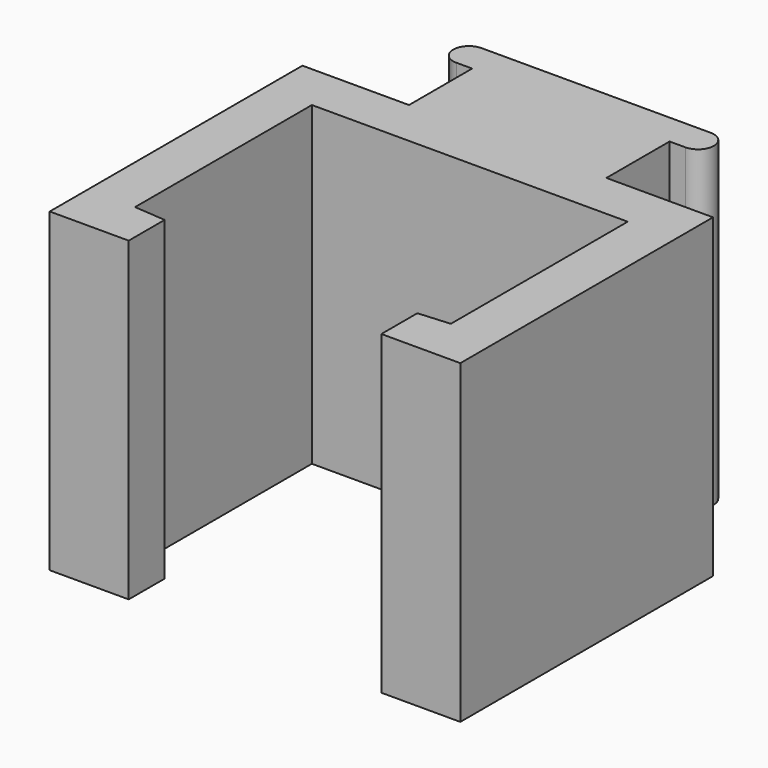
from build123d import *

# Parameters (mm, degrees)
F1_DEPTH = 10


with BuildPart() as f1:
    # F0 (on Top) → F1 (new body)
    with BuildSketch(Plane.XY):
        with BuildLine():
            Line((-6.5, -5), (-4, -5))
            Line((-4, -5), (-4, -3.576375))
            Line((-4, -3.576375), (-5, -3.5))
            Line((-5, -3.5), (-5, 3.5))
            Line((-5, 3.5), (5, 3.5))
            Line((5, 3.5), (5, -3.5))
            Line((5, -3.5), (4, -3.576375))
            Line((4, -3.576375), (4, -5))
            Line((4, -5), (6.5, -5))
            Line((6.5, -5), (6.5, 5))
            Line((6.5, 5), (3.125, 5))
            Line((3.125, 5), (3.125, 7.5))
            Line((3.125, 7.5), (3.627, 7.5))
            ThreePointArc((3.627, 7.5), (4.127, 8), (3.627, 8.5))
            Line((3.627, 8.5), (-3.627, 8.5))
            ThreePointArc((-3.627, 8.5), (-4.127, 8), (-3.627, 7.5))
            Line((-3.627, 7.5), (-3.125, 7.5))
            Line((-3.125, 7.5), (-3.125, 5))
            Line((-3.125, 5), (-6.5, 5))
            Line((-6.5, 5), (-6.5, -5))
        make_face()
    extrude(amount=F1_DEPTH)


solid = f1.part
